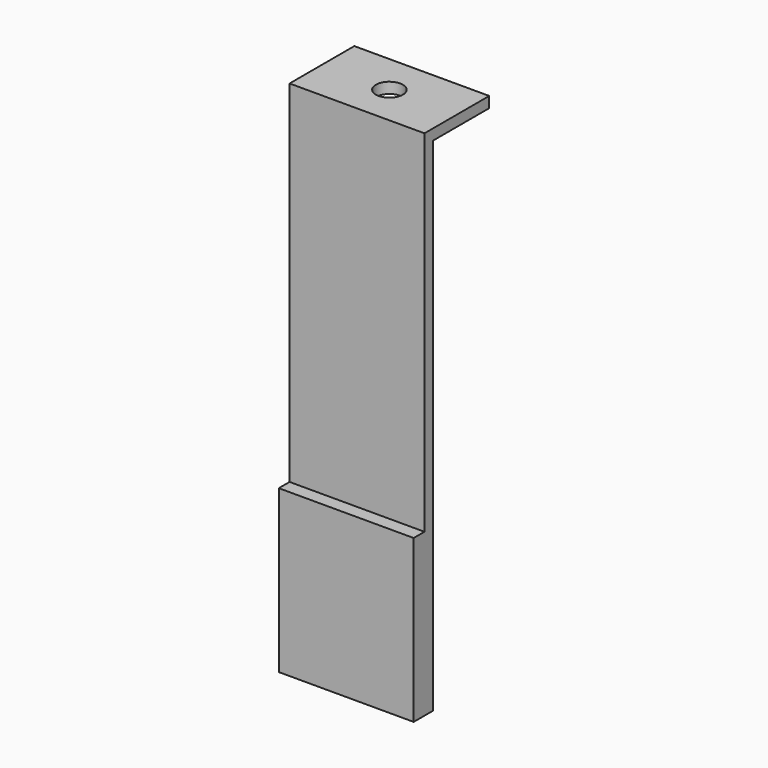
from build123d import *

# Parameters (mm, degrees)
F0_W     = 50
F0_H     = 186
F1_DEPTH = 2
F2_W     = 50
F2_H     = 26
F2_R     = 5
F2_H_2   = 4
F3_DEPTH = 4
F4_W     = 50
F4_H     = 60
F5_DEPTH = 5


with BuildPart() as f1:
    # F0 (on Front) → F1 (new body, symmetric)
    with BuildSketch(Plane.XZ):
        with Locations((0.1773070544, -2)):
            Rectangle(F0_W, F0_H)
    extrude(amount=F1_DEPTH, both=True)

    # F2 (on face) → F3 (join)
    with BuildSketch(Plane.XY.offset(91)):
        with Locations((0.1773070544, 15)):
            Rectangle(F2_W, F2_H)
        with Locations((0.1773070544, 13)):
            Circle(F2_R, mode=Mode.SUBTRACT)
        with Locations((0.1773070544, 0)):
            Rectangle(F2_W, F2_H_2)
    extrude(amount=F3_DEPTH)

    # F4 (on face) → F5 (join)
    with BuildSketch(Plane.XZ.offset(2)):
        with Locations((0.1773070544, -65)):
            Rectangle(F4_W, F4_H)
    extrude(amount=F5_DEPTH)


solid = f1.part
